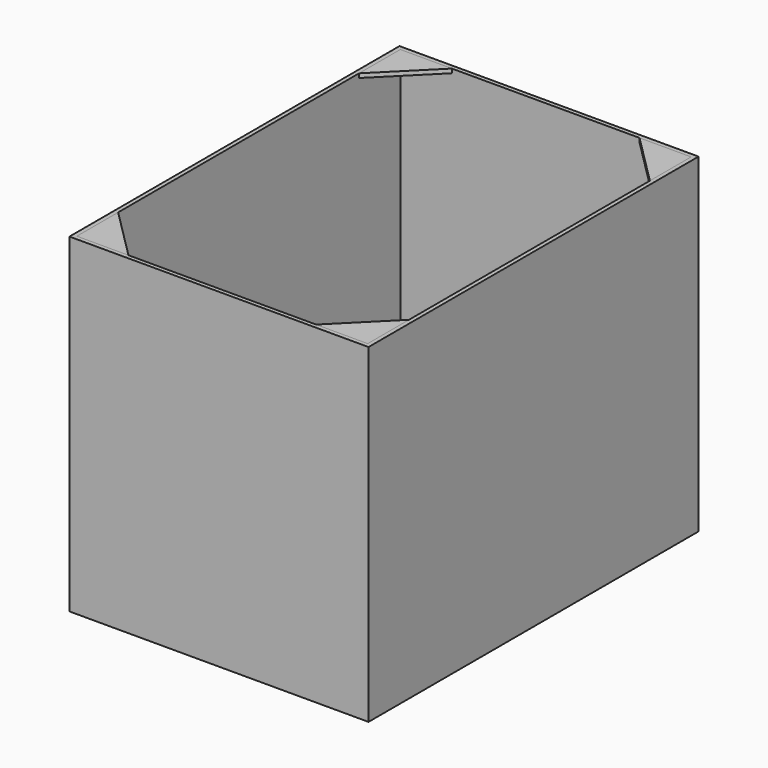
from build123d import *

# Parameters (mm, degrees)
F0_W      = 184.135187606
F0_H      = 254
F1_DEPTH  = 12.7
F2_W      = 184.135187606
F2_H      = 254
F2_R      = 33.02
F3_DEPTH  = 38.1
F4_T      = -3.175
F5_R      = 2.54
F6_R      = 2.54
F7_W      = 184.135187606
F7_H      = 254
F7_W_2    = 179.055187606
F7_H_2    = 248.92
F8_DEPTH  = 152.4
F10_DEPTH = 2.54


with BuildPart() as f1:
    # F0 (on Top) → F1 (new body)
    with BuildSketch(Plane.XY):
        with Locations((92.067593803, 127)):
            Rectangle(F0_W, F0_H)
    extrude(amount=F1_DEPTH)

    # F2 (on face) → F3 (join)
    with BuildSketch(Plane.XY.offset(12.7)):
        with Locations((92.067593803, 127)):
            Rectangle(F2_W, F2_H)
        with Locations((50.3682, 50.8)):
            Circle(F2_R, mode=Mode.SUBTRACT)
        with Locations((133.766987606, 50.8)):
            Circle(F2_R, mode=Mode.SUBTRACT)
        with Locations((50.3682, 127)):
            Circle(F2_R, mode=Mode.SUBTRACT)
        with Locations((50.3682, 203.2)):
            Circle(F2_R, mode=Mode.SUBTRACT)
        with Locations((133.766987606, 127)):
            Circle(F2_R, mode=Mode.SUBTRACT)
        with Locations((133.766987606, 203.2)):
            Circle(F2_R, mode=Mode.SUBTRACT)
    extrude(amount=F3_DEPTH)

    # F4
    f4_openings = [f1.faces().sort_by_distance(p)[0] for p in [
        (92.067594, 127, 0),
    ]]
    offset(amount=F4_T, openings=f4_openings, kind=Kind.INTERSECTION)

    # F5
    f5_edges = [f1.edges().sort_by_distance(p)[0] for p in [
        (100.746988, 127, 12.7),
        (100.746988, 203.2, 12.7),
        (17.3482, 203.2, 12.7),
        (17.3482, 127, 12.7),
        (17.3482, 50.8, 12.7),
        (100.746988, 50.8, 12.7),
        (100.746988, 127, 50.8),
        (100.746988, 203.2, 50.8),
        (100.746988, 50.8, 50.8),
        (17.3482, 50.8, 50.8),
        (17.3482, 127, 50.8),
        (17.3482, 203.2, 50.8),
    ]]
    fillet(f5_edges, radius=F5_R)

    # F6
    f6_edges = [f1.edges().sort_by_distance(p)[0] for p in [
        (92.067594, 250.825, 47.625),
        (180.960188, 127, 47.625),
        (92.067594, 3.175, 47.625),
        (3.175, 127, 47.625),
        (97.571988, 50.8, 9.525),
        (97.571988, 127, 9.525),
        (97.571988, 203.2, 9.525),
        (14.1732, 203.2, 9.525),
        (14.1732, 127, 9.525),
        (14.1732, 50.8, 9.525),
    ]]
    fillet(f6_edges, radius=F6_R)

    # F7 (on face) → F8 (join)
    with BuildSketch(Plane.XY.offset(50.8)):
        with Locations((92.067593803, 127)):
            Rectangle(F7_W, F7_H)
        with Locations((92.067593803, 127)):
            Rectangle(F7_W_2, F7_H_2, mode=Mode.SUBTRACT)
    extrude(amount=F8_DEPTH)


with BuildPart() as f10:
    # F9 (on face) → F10 (new body)
    with BuildSketch(Plane.XY.offset(203.2)):
        Polygon((34.29, 251.46), (2.54, 251.46), (2.54, 219.71), align=None)
    extrude(amount=-F10_DEPTH)


with BuildPart() as f10b:
    # F9 (on face) → F10, piece 2 (new body)
    with BuildSketch(Plane.XY.offset(203.2)):
        Polygon((34.29, 2.54), (2.54, 34.29), (2.54, 2.54), align=None)
    extrude(amount=-F10_DEPTH)


with BuildPart() as f10c:
    # F9 (on face) → F10, piece 3 (new body)
    with BuildSketch(Plane.XY.offset(203.2)):
        Polygon((181.595187606, 34.29), (149.845187606, 2.54), (181.595187606, 2.54), align=None)
    extrude(amount=-F10_DEPTH)


with BuildPart() as f10d:
    # F9 (on face) → F10, piece 4 (new body)
    with BuildSketch(Plane.XY.offset(203.2)):
        Polygon((181.595187606, 251.46), (149.845187606, 251.46), (181.595187606, 219.71), align=None)
    extrude(amount=-F10_DEPTH)


solid = Compound([f1.part, f10.part, f10b.part, f10c.part, f10d.part])
